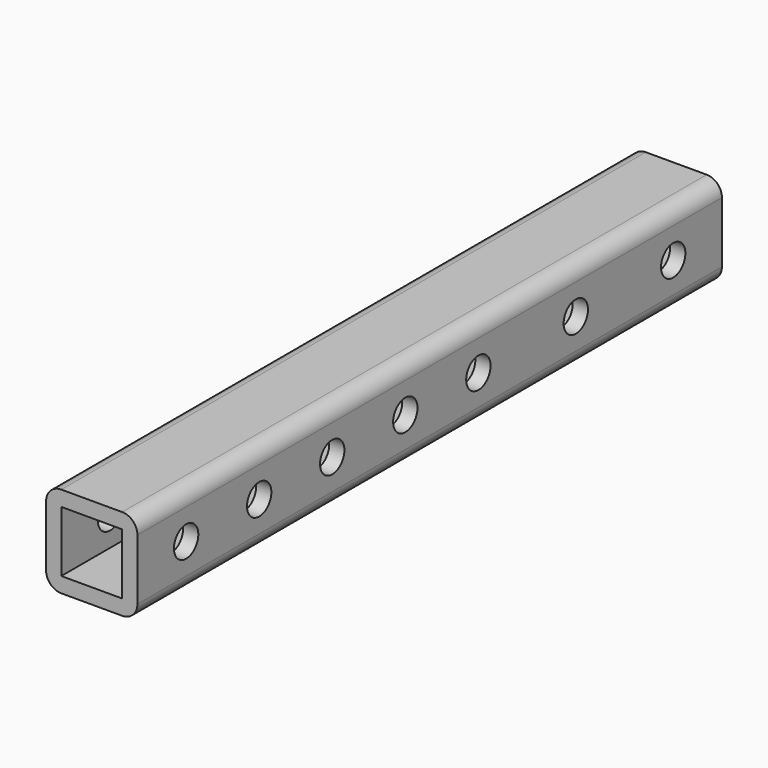
from build123d import *

# Parameters (mm, degrees)
F0_W     = 25.4
F0_H     = 25.4
F2_DEPTH = 304.8
F4_D     = 12.7
F1_D     = 12.7


with BuildPart() as f2:
    # F0 (on Front) → F2 (new body)
    with BuildSketch(Plane.XZ):
        with BuildLine():
            Line((-12.7, -19.05), (12.7, -19.05))
            ThreePointArc((12.7, -19.05), (17.190128, -17.190128), (19.05, -12.7))
            Line((19.05, -12.7), (19.05, 12.7))
            ThreePointArc((19.05, 12.7), (17.190128, 17.190128), (12.7, 19.05))
            Line((12.7, 19.05), (-12.7, 19.05))
            ThreePointArc((-12.7, 19.05), (-17.190128, 17.190128), (-19.05, 12.7))
            Line((-19.05, 12.7), (-19.05, -12.7))
            ThreePointArc((-19.05, -12.7), (-17.190128, -17.190128), (-12.7, -19.05))
        make_face()
        Rectangle(F0_W, F0_H, mode=Mode.SUBTRACT)
    extrude(amount=-F2_DEPTH)

    # F4 (through all)
    with Locations(Plane(origin=(0, 0, 0), x_dir=(0, 1, 0), z_dir=(-1, 0, 0))):
        with Locations((25.4, 0), (101.6, 0), (63.5, 0), (228.6, 0), (279.4, 0), (139.7, 0), (177.8, 0)):
            Hole(F4_D / 2)

    # F1 (through all)
    with Locations(Plane.YZ):
        with Locations((25.4, 0), (63.5, 0), (101.6, 0), (228.6, 0), (279.4, 0), (139.7, 0), (177.8, 0)):
            Hole(F1_D / 2)


solid = f2.part
